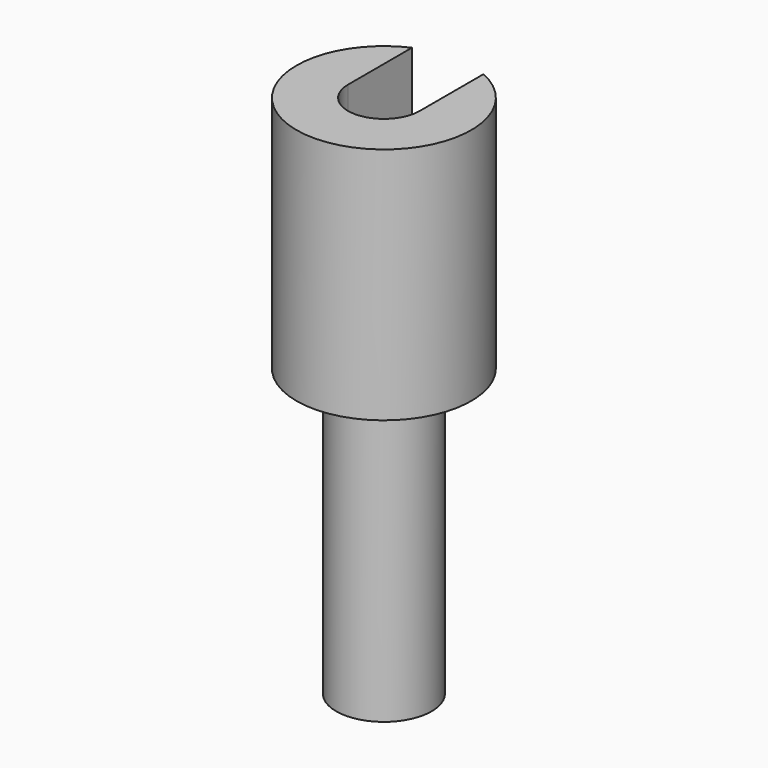
from build123d import *

# Parameters (mm, degrees)
F3_DEPTH = 6


with BuildPart() as f1:
    # F0 (on Front) → F1 (revolve)
    with BuildSketch(Plane.XZ):
        Polygon((0, -18), (0, 6.7), (-3.6, 6.7), (-3.6, 10.7), (-2.25, 10.7), (-2.25, 15), (-5.5, 15), (-5.5, 0), (-3, 0), (-3, -18), align=None)
    revolve(axis=Axis((0, 0, -5.65), (0, 0, -1)))

    # F2 (on Front) → F3 (cut)
    with BuildSketch(Plane.XZ):
        Polygon((2.25, 10.7), (2.25, 15), (-2.25, 15), (-2.25, 10.7), (-3.6, 10.7), (-3.6, 6.7), (3.6, 6.7), (3.6, 10.7), align=None)
    extrude(amount=-F3_DEPTH, mode=Mode.SUBTRACT)


solid = f1.part
